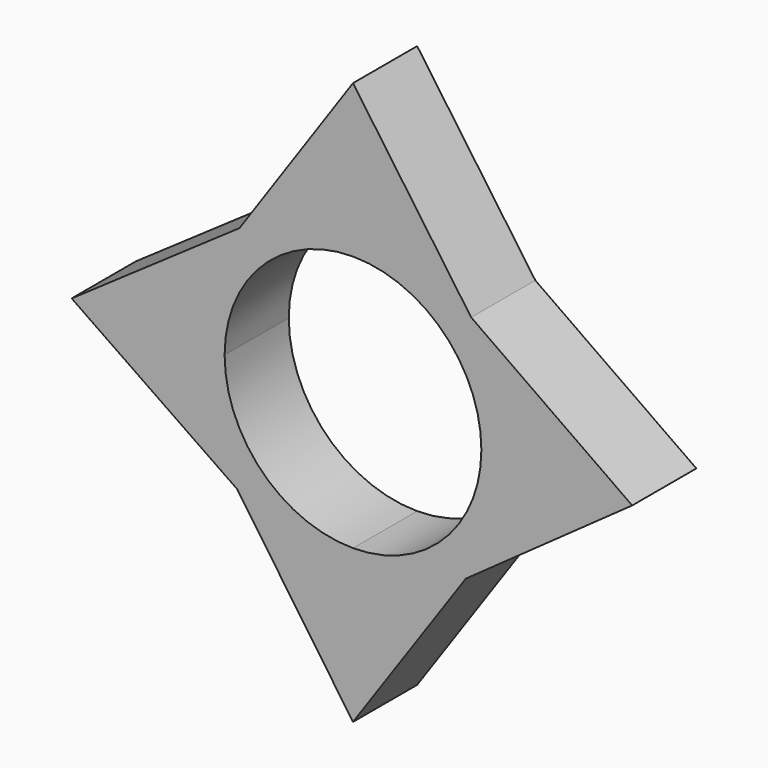
from build123d import *

# Parameters (mm, degrees)
F1_DEPTH = 6.9342


with BuildPart() as f1:
    # F0 (on Front) → F1 (new body)
    with BuildSketch(Plane.XZ):
        with BuildLine():
            ThreePointArc((-11.0998, 0), (-7.848744, 7.848744), (0, 11.0998))
            Line((0, 11.0998), (0, 24.298547))
            Line((0, 24.298547), (-9.813829, 10.06805))
            Line((-9.813829, 10.06805), (-24.327461, 0))
            Line((-24.327461, 0), (-11.0998, 0))
        make_face()
        with BuildLine():
            Line((0, 24.298547), (0, 11.0998))
            ThreePointArc((0, 11.0998), (7.848744, 7.848744), (11.0998, 0))
            Line((11.0998, 0), (24.14246, 0))
            Line((24.14246, 0), (10.217335, 9.78862))
            Line((10.217335, 9.78862), (0, 24.298547))
        make_face()
        with BuildLine():
            ThreePointArc((0, -11.0998), (-7.848744, -7.848744), (-11.0998, 0))
            Line((-11.0998, 0), (-24.327461, 0))
            Line((-24.327461, 0), (-10.020223, -9.861334))
            Line((-10.020223, -9.861334), (0, -24.327463))
            Line((0, -24.327463), (0, -11.0998))
        make_face()
        with BuildLine():
            Line((24.14246, 0), (11.0998, 0))
            ThreePointArc((11.0998, 0), (7.848744, -7.848744), (0, -11.0998))
            Line((0, -11.0998), (0, -24.327463))
            Line((0, -24.327463), (9.758095, -10.243655))
            Line((9.758095, -10.243655), (24.14246, 0))
        make_face()
    extrude(amount=F1_DEPTH)


solid = f1.part
